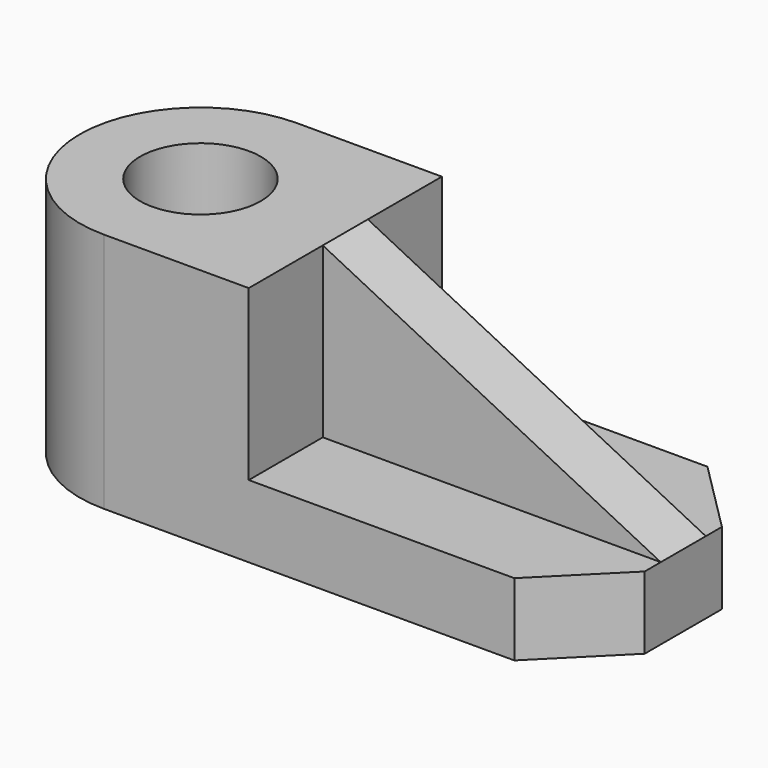
from build123d import *

# Parameters (mm, degrees)
F0_R     = 190.5
F1_DEPTH = 762
F0_W     = 1066.8
F0_H     = 762
F2_DEPTH = 228.6
F3_SIZE  = 228.6
F5_DEPTH = 533.4
F7_DEPTH = 2540


with BuildPart() as f1:
    # F0 (on Top) → F1 (new body)
    with BuildSketch(Plane.XY):
        with BuildLine():
            ThreePointArc((-62.633127, -368.587947), (206.774557, -256.995631), (318.366873, 12.412053))
            ThreePointArc((318.366873, 12.412053), (206.774557, 281.819736), (-62.633127, 393.412053))
            ThreePointArc((-62.633127, 393.412053), (-443.633127, 12.412053), (-62.633127, -368.587947))
        make_face()
        with Locations((-62.633127, 12.412053)):
            Circle(F0_R, mode=Mode.SUBTRACT)
        with BuildLine():
            ThreePointArc((-62.633127, 393.412053), (206.774557, 281.819736), (318.366873, 12.412053))
            ThreePointArc((318.366873, 12.412053), (206.774557, -256.995631), (-62.633127, -368.587947))
            Line((-62.633127, -368.587947), (394.566873, -368.587947))
            Line((394.566873, -368.587947), (394.566873, 393.412053))
            Line((394.566873, 393.412053), (-62.633127, 393.412053))
        make_face()
    extrude(amount=F1_DEPTH)

    # F0 (on Top) → F2 (join)
    with BuildSketch(Plane.XY):
        with Locations((927.966873, 12.412053)):
            Rectangle(F0_W, F0_H)
    extrude(amount=F2_DEPTH)

    # F3
    f3_edges = [f1.edges().sort_by_distance(p)[0] for p in [
        (1461.366873, 393.412053, 114.3),
        (1461.366873, -368.587947, 114.3),
    ]]
    chamfer(f3_edges, length=F3_SIZE)

    # F4 (on face) → F5 (join)
    with BuildSketch(Plane.XY.offset(228.6)):
        Polygon((394.566873, 101.312053), (394.566873, 12.412053), (394.566873, -76.487947), (1461.366873, -76.487947), (1461.366873, 101.312053), align=None)
    extrude(amount=F5_DEPTH)

    # F6 (on face) → F7 (cut)
    with BuildSketch(Plane.XZ.offset(76.487947)):
        Polygon((1461.366873, 762), (394.566873, 762), (1461.366873, 228.6), align=None)
    extrude(amount=-F7_DEPTH, mode=Mode.SUBTRACT)


solid = f1.part
